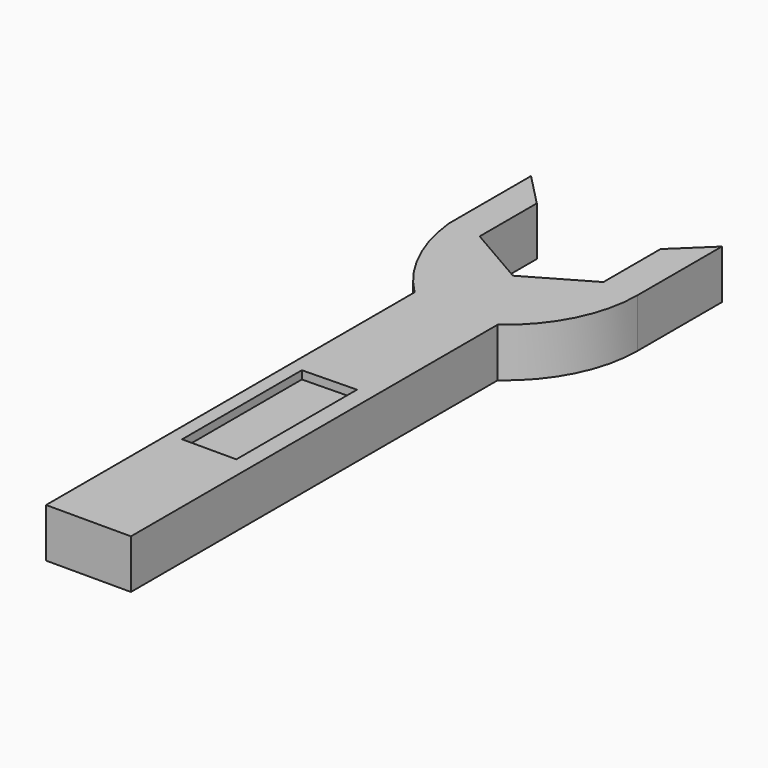
from build123d import *

# Parameters (mm, degrees)
F1_DEPTH = 7.62
F2_DEPTH = 6.35


with BuildPart() as f1:
    # F0 (on Top) → F1 (new body)
    with BuildSketch(Plane.XY):
        Polygon((-39.409278, 16.863504), (-39.409278, -54.793487), (-26.211753, -54.793487), (-26.211753, 16.496908), align=None)
        Polygon((-37.301339, -30.977527), (-37.301339, -7.698557), (-28.869588, -7.515258), (-28.869588, -30.977527), align=None, mode=Mode.SUBTRACT)
        with BuildLine():
            ThreePointArc((-47.474433, 33.543713), (-44.871765, 24.512224), (-39.409278, 16.863504))
            Line((-39.409278, 16.863504), (-26.211753, 16.496908))
            ThreePointArc((-26.211753, 16.496908), (-20.007727, 23.832012), (-17.78, 33.177115))
            Line((-17.78, 33.177115), (-17.78, 49.582373))
            Line((-17.78, 49.582373), (-23.187321, 44.402427))
            Line((-23.187321, 44.402427), (-23.187321, 33.290519))
            Line((-23.187321, 33.290519), (-26.211753, 31.544362))
            Line((-26.211753, 31.544362), (-32.810516, 27.734565))
            Line((-32.810516, 27.734565), (-39.409278, 31.544362))
            Line((-39.409278, 31.544362), (-42.433711, 33.290519))
            Line((-42.433711, 33.290519), (-42.433711, 44.402427))
            Line((-42.433711, 44.402427), (-47.474433, 49.582373))
            Line((-47.474433, 49.582373), (-47.474433, 33.543713))
        make_face()
    extrude(amount=F1_DEPTH)

    # F0 (on Top) → F2 (join)
    with BuildSketch(Plane.XY):
        Polygon((-28.869588, -7.515258), (-37.301339, -7.698557), (-37.301339, -30.977527), (-28.869588, -30.977527), align=None)
    extrude(amount=F2_DEPTH)


solid = f1.part
